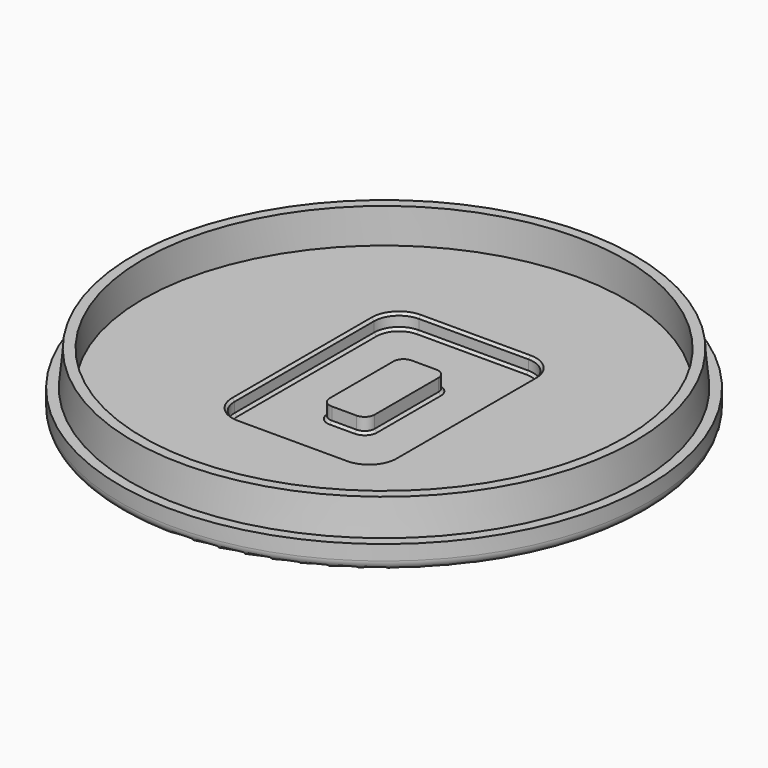
from build123d import *

# Parameters (mm, degrees)
F2_R     = 2
F3_W     = 32
F3_H     = 45
F3_W_2   = 9
F3_H_2   = 20
F4_DEPTH = 3
F5_R     = 5
F6_R     = 2
F7_SIZE  = 0.5


with BuildPart() as f1:
    # F0 (on Front) → F1 (revolve)
    with BuildSketch(Plane.XZ):
        with BuildLine():
            ThreePointArc((0, 2.5), (2.5, 1.830127), (4.330127, 0))
            Line((4.330127, 0), (53, 0))
            Line((53, 0), (53, 5))
            Line((53, 5), (51, 5))
            Line((51, 5), (50.387579, 12))
            Line((50.387579, 12), (48.387579, 12))
            Line((48.387579, 12), (48.387579, 5))
            Line((48.387579, 5), (0, 5))
            Line((0, 5), (0, 2.5))
        make_face()
    revolve(axis=Axis((0, 0, 3.75), (0, 0, -1)))

    # F2
    f2_edges = [f1.edges().sort_by_distance(p)[0] for p in [
        (-53, 0, 0),
    ]]
    fillet(f2_edges, radius=F2_R)

    # F3 (on face) → F4 (cut)
    with BuildSketch(Plane.XY.offset(5)):
        Rectangle(F3_W, F3_H)
        Rectangle(F3_W_2, F3_H_2, mode=Mode.SUBTRACT)
    extrude(amount=-F4_DEPTH, mode=Mode.SUBTRACT)

    # F5
    f5_edges = [f1.edges().sort_by_distance(p)[0] for p in [
        (-16, 22.5, 3.5),
        (16, 22.5, 3.5),
        (16, -22.5, 3.5),
        (-16, -22.5, 3.5),
    ]]
    fillet(f5_edges, radius=F5_R)

    # F6
    f6_edges = [f1.edges().sort_by_distance(p)[0] for p in [
        (-4.5, 10, 3.5),
        (4.5, 10, 3.5),
        (4.5, -10, 3.5),
        (-4.5, -10, 3.5),
    ]]
    fillet(f6_edges, radius=F6_R)

    # F7
    f7_edges = [f1.edges().sort_by_distance(p)[0] for p in [
        (4.5, 0, 2),
        (0, 22.5, 2),
        (0, 22.5, 5),
    ]]
    chamfer(f7_edges, length=F7_SIZE)


solid = f1.part
